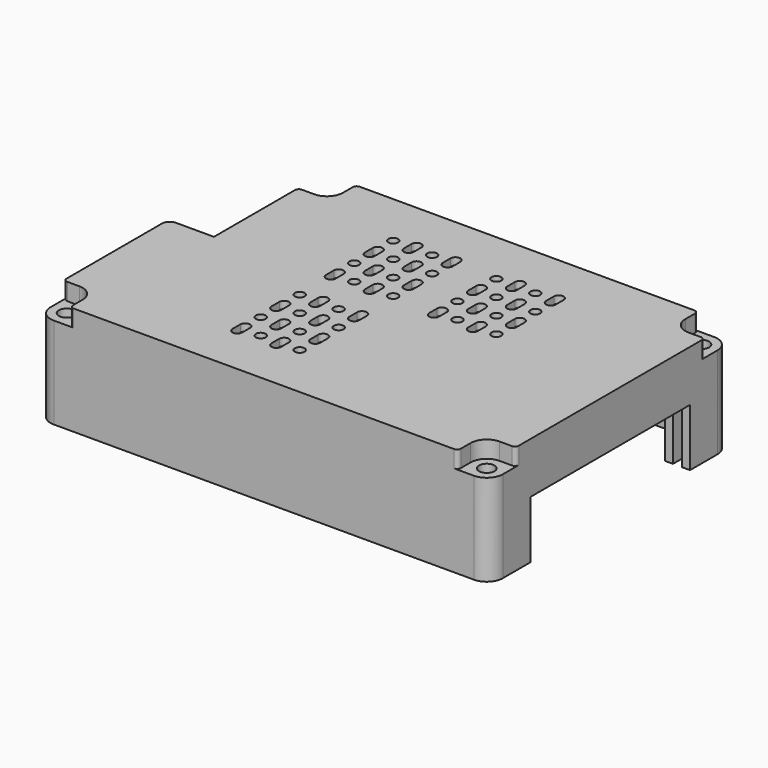
from build123d import *

# Parameters (mm, degrees)
PAD006_DEPTH    = 17.8
PAD007_DEPTH    = 3
PAD008_DEPTH    = 1.5
POCKET015_DEPTH = 17.3
POCKET016_DEPTH = 0.65
POCKET017_DEPTH = 2
SKETCH017_W     = 1.9
SKETCH017_H     = 46.1
POCKET018_DEPTH = 14.35
SKETCH018_W     = 6.1
SKETCH018_H     = 41.02
POCKET019_DEPTH = 11.81
SKETCH019_R     = 1.6
POCKET020_DEPTH = 22.301
POCKET021_DEPTH = 3.5
PAD009_DEPTH    = 9
FILLET003_R     = 3.3
FILLET004_R     = 1.6
FILLET005_R     = 6
FILLET006_R     = 0.8
FILLET007_R     = 0.761905
SKETCH032_R     = 1
POCKET025_DEPTH = 22.301


with BuildPart() as part:
    # Sketch011 → Pad006 (new body)
    with BuildSketch(Plane.XY):
        Polygon((13.3, 49.3), (13.3, 77.5), (96.8, 77.5), (96.8, 15.8), (3.9, 15.8), (3.9, 49.3), align=None)
        with BuildLine():
            Line((16.6, 17.4), (90.2, 17.4))
            Line((90.2, 17.4), (90.2, 19.1))
            ThreePointArc((91.7, 21.865863), (90.599138, 20.673213), (90.2, 19.1))
            Line((91.7, 71.434137), (91.7, 21.865863))
            ThreePointArc((90.2, 74.2), (90.599138, 72.626787), (91.7, 71.434137))
            Line((90.2, 74.2), (90.2, 75.9))
            Line((90.2, 75.9), (19.9, 75.9))
            Line((19.9, 75.9), (19.9, 74.2))
            ThreePointArc((16.6, 70.9), (18.933452, 71.866548), (19.9, 74.2))
            Line((14.9, 70.9), (16.6, 70.9))
            Line((14.9, 70.9), (14.9, 64.2))
            Line((14.9, 64.2), (16.6, 64.2))
            Line((16.6, 64.2), (16.6, 17.4))
        make_face(mode=Mode.SUBTRACT)
    extrude(amount=PAD006_DEPTH)

    # Sketch024 (on Face21 of Pad006) → Pad007 (join)
    with BuildSketch(Plane.XY.offset(17.8)):
        Polygon((3.9, 49.3), (3.9, 15.8), (96.8, 15.8), (96.8, 77.5), (13.3, 77.5), (13.3, 49.3), align=None)
        with BuildLine():
            Line((21.5, 75.9), (88.6, 75.9))
            Line((88.6, 75.9), (88.6, 74.2))
            ThreePointArc((88.6, 74.2), (89.448457, 71.444097), (91.7, 69.642588))
            Line((91.7, 69.642588), (91.7, 23.657412))
            ThreePointArc((91.7, 23.657412), (89.448457, 21.855903), (88.6, 19.1))
            Line((88.6, 17.4), (88.6, 19.1))
            Line((88.6, 17.4), (16.6, 17.4))
            Line((16.6, 17.4), (16.6, 69.3))
            ThreePointArc((16.6, 69.3), (20.064823, 70.735177), (21.5, 74.2))
            Line((21.5, 75.9), (21.5, 74.2))
        make_face(mode=Mode.SUBTRACT)
    extrude(amount=PAD007_DEPTH)

    # Sketch012 (on Face15 of Pad007) → Pad008 (join)
    with BuildSketch(Plane.XY.offset(20.8)):
        Polygon((13.3, 77.5), (13.3, 49.3), (3.9, 49.3), (3.9, 15.8), (96.8, 15.8), (96.8, 77.5), align=None)
    extrude(amount=PAD008_DEPTH)

    # Sketch013 (on Face3 of Pad008) → Pocket015 (cut)
    with BuildSketch(Plane(origin=(0, 0, 0), x_dir=(1, 0, 0), z_dir=(0, 0, -1))):
        Polygon((1.5, -22.9), (4.7, -22.9), (4.7, -22.4), (15, -22.4), (15, -22.9), (18.2, -22.9), (18.2, -47.2), (15, -47.2), (15, -47.7), (4.7, -47.7), (4.7, -47.2), (1.5, -47.2), align=None)
    extrude(amount=-POCKET015_DEPTH, mode=Mode.SUBTRACT)

    # Sketch015 (on Face10 of Pocket015) → Pocket016 (cut)
    with BuildSketch(Plane(origin=(0, 0, 17.3), x_dir=(1, 0, 0), z_dir=(0, 0, -1))):
        Polygon((4.7, -22.4), (4.7, -47.7), (15, -47.7), (15, -47.2), (17.4, -47.2), (17.4, -22.9), (15, -22.9), (15, -22.4), align=None)
    extrude(amount=-POCKET016_DEPTH, mode=Mode.SUBTRACT)

    # Sketch016 (on Face25 of Pocket016) → Pocket017 (cut)
    with BuildSketch(Plane(origin=(0, 0, 17.95), x_dir=(1, 0, 0), z_dir=(0, 0, -1))):
        Polygon((4.7, -47.7), (15, -47.7), (15, -47.2), (17.4, -47.2), (17.4, -35.05), (4.7, -35.05), align=None)
    extrude(amount=-POCKET017_DEPTH, mode=Mode.SUBTRACT)

    # Sketch017 (on Face8 of Pocket017) → Pocket018 (cut)
    with BuildSketch(Plane(origin=(0, 0, 0), x_dir=(1, 0, 0), z_dir=(0, 0, -1))):
        with Locations((94.25, -46.65)):
            Rectangle(SKETCH017_W, SKETCH017_H)
    extrude(amount=-POCKET018_DEPTH, mode=Mode.SUBTRACT)

    # Sketch018 (on Face8 of Pocket018) → Pocket019 (cut)
    with BuildSketch(Plane(origin=(0, 0, 0), x_dir=(1, 0, 0), z_dir=(0, 0, -1))):
        with Locations((94.25, -46.65)):
            Rectangle(SKETCH018_W, SKETCH018_H)
    extrude(amount=-POCKET019_DEPTH, mode=Mode.SUBTRACT)

    # Sketch019 (on Face9 of Pocket019) → Pocket020 (cut, through all)
    with BuildSketch(Plane(origin=(0, 0, 0), x_dir=(1, 0, 0), z_dir=(0, 0, -1))):
        with Locations((7.2, -19.1)):
            Circle(SKETCH019_R)
        with Locations((93.5, -19.1)):
            Circle(SKETCH019_R)
        with Locations((93.5, -74.2)):
            Circle(SKETCH019_R)
        with Locations((16.6, -74.2)):
            Circle(SKETCH019_R)
    extrude(amount=-POCKET020_DEPTH, mode=Mode.SUBTRACT)

    # Sketch020 (on Face1 of Pocket020) → Pocket021 (cut)
    with BuildSketch(Plane.XY.offset(22.3)):
        with BuildLine():
            ThreePointArc((16.6, 70.9), (18.933452, 71.866548), (19.9, 74.2))
            Line((19.9, 79.2), (19.9, 74.2))
            Line((11.6, 79.2), (19.9, 79.2))
            Line((11.6, 70.9), (11.6, 79.2))
            Line((16.6, 70.9), (11.6, 70.9))
        make_face()
        with BuildLine():
            ThreePointArc((90.2, 74.2), (91.166548, 71.866548), (93.5, 70.9))
            Line((98.5, 70.9), (93.5, 70.9))
            Line((98.5, 79.2), (98.5, 70.9))
            Line((90.2, 79.2), (98.5, 79.2))
            Line((90.2, 74.2), (90.2, 79.2))
        make_face()
        with BuildLine():
            ThreePointArc((93.5, 22.4), (91.166548, 21.433452), (90.2, 19.1))
            Line((90.2, 19.1), (90.2, 14.1))
            Line((90.2, 14.1), (98.5, 14.1))
            Line((98.5, 14.1), (98.5, 22.4))
            Line((93.5, 22.4), (98.5, 22.4))
        make_face()
        with BuildLine():
            ThreePointArc((10.5, 19.1), (9.533452, 21.433452), (7.2, 22.4))
            Line((7.2, 22.4), (2.2, 22.4))
            Line((2.2, 14.1), (2.2, 22.4))
            Line((10.5, 14.1), (2.2, 14.1))
            Line((10.5, 19.1), (10.5, 14.1))
        make_face()
    extrude(amount=-POCKET021_DEPTH, mode=Mode.SUBTRACT)

    # Sketch022 → Pad009 (join)
    with BuildSketch(Plane(origin=(0, 0, 21.3), x_dir=(1, 0, 0), z_dir=(0, 0, -1))):
        with BuildLine():
            ThreePointArc((75, -46.5), (70.0331, -32.388578), (58, -23.5))
            Line((58, -23.5), (58.530776, -21.990604))
            ThreePointArc((76.598697, -46.435438), (71.319782, -31.437552), (58.530776, -21.990604))
            Line((75, -46.5), (76.598697, -46.435438))
        make_face()
    extrude(amount=PAD009_DEPTH)

    # Fillet003
    fillet003_edges = [part.edges().sort_by_distance(p)[0] for p in [
        (13.3, 77.5, 9.4),
        (3.9, 15.8, 9.4),
        (96.8, 77.5, 9.4),
        (96.8, 15.8, 9.4),
    ]]
    fillet(fillet003_edges, radius=FILLET003_R)

    # Fillet004
    fillet004_edges = [part.edges().sort_by_distance(p)[0] for p in [
        (3.9, 49.3, 11.15),
    ]]
    fillet(fillet004_edges, radius=FILLET004_R)

    # Fillet005
    fillet005_edges = [part.edges().sort_by_distance(p)[0] for p in [
        (4.3, 47.2, 17.3),
        (4.3, 22.9, 17.3),
    ]]
    fillet(fillet005_edges, radius=FILLET005_R)

    # Fillet006
    fillet006_edges = [part.edges().sort_by_distance(p)[0] for p in [
        (13.3, 70.9, 20.55),
        (19.9, 77.5, 20.55),
        (3.9, 22.4, 20.55),
        (10.5, 15.8, 20.55),
        (96.8, 22.4, 20.55),
        (90.2, 15.8, 20.55),
        (96.8, 70.9, 20.55),
        (90.2, 77.5, 20.55),
    ]]
    fillet(fillet006_edges, radius=FILLET006_R)

    # Fillet007
    fillet007_edges = [part.edges().sort_by_distance(p)[0] for p in [
        (58, 23.5, 16.55),
        (58.530776, 21.990604, 16.55),
        (76.598697, 46.435438, 16.55),
        (75, 46.5, 16.55),
    ]]
    fillet(fillet007_edges, radius=FILLET007_R)

    # Sketch032 (on Face71 of Fillet007) → Pocket025 (cut, through all)
    with BuildSketch(Plane(origin=(20, 20, 22.3), x_dir=(-1, 0, 0), z_dir=(0, 0, 1))):
        with Locations((-16.6, -22.2)):
            Circle(SKETCH032_R)
        with Locations((-16.6, -12.2)):
            Circle(SKETCH032_R)
        with Locations((-20.6, -17.2)):
            Circle(SKETCH032_R)
        with Locations((-20.6, -7.2)):
            Circle(SKETCH032_R)
        with Locations((-24.6, -22.2)):
            Circle(SKETCH032_R)
        with Locations((-24.6, -12.2)):
            Circle(SKETCH032_R)
        with Locations((-28.6, -17.2)):
            Circle(SKETCH032_R)
        with Locations((-28.6, -7.2)):
            Circle(SKETCH032_R)
        with Locations((-16.6, -46.2)):
            Circle(SKETCH032_R)
        with Locations((-16.6, -36.2)):
            Circle(SKETCH032_R)
        with Locations((-20.6, -41.2)):
            Circle(SKETCH032_R)
        with Locations((-20.6, -31.2)):
            Circle(SKETCH032_R)
        with Locations((-24.6, -46.2)):
            Circle(SKETCH032_R)
        with Locations((-24.6, -36.2)):
            Circle(SKETCH032_R)
        with Locations((-28.6, -41.2)):
            Circle(SKETCH032_R)
        with Locations((-28.6, -31.2)):
            Circle(SKETCH032_R)
        with Locations((-37.8, -46.2)):
            Circle(SKETCH032_R)
        with Locations((-37.8, -36.2)):
            Circle(SKETCH032_R)
        with Locations((-41.8, -41.2)):
            Circle(SKETCH032_R)
        with Locations((-41.8, -31.2)):
            Circle(SKETCH032_R)
        with Locations((-45.8, -46.2)):
            Circle(SKETCH032_R)
        with Locations((-45.8, -36.2)):
            Circle(SKETCH032_R)
        with Locations((-49.8, -41.2)):
            Circle(SKETCH032_R)
        with Locations((-49.8, -31.2)):
            Circle(SKETCH032_R)
        with BuildLine():
            ThreePointArc((-17.6, -18.2), (-16.6, -19.2), (-15.6, -18.2))
            Line((-15.6, -16.2), (-15.6, -18.2))
            ThreePointArc((-15.6, -16.2), (-16.6, -15.2), (-17.6, -16.2))
            Line((-17.6, -18.2), (-17.6, -16.2))
        make_face()
        with BuildLine():
            ThreePointArc((-17.6, -8.2), (-16.6, -9.2), (-15.6, -8.2))
            Line((-15.6, -6.2), (-15.6, -8.2))
            ThreePointArc((-15.6, -6.2), (-16.6, -5.2), (-17.6, -6.2))
            Line((-17.6, -8.2), (-17.6, -6.2))
        make_face()
        with BuildLine():
            ThreePointArc((-21.6, -23.2), (-20.6, -24.2), (-19.6, -23.2))
            Line((-19.6, -21.2), (-19.6, -23.2))
            ThreePointArc((-19.6, -21.2), (-20.6, -20.2), (-21.6, -21.2))
            Line((-21.6, -23.2), (-21.6, -21.2))
        make_face()
        with BuildLine():
            ThreePointArc((-21.6, -13.2), (-20.6, -14.2), (-19.6, -13.2))
            Line((-19.6, -11.2), (-19.6, -13.2))
            ThreePointArc((-19.6, -11.2), (-20.6, -10.2), (-21.6, -11.2))
            Line((-21.6, -13.2), (-21.6, -11.2))
        make_face()
        with BuildLine():
            ThreePointArc((-25.6, -18.2), (-24.6, -19.2), (-23.6, -18.2))
            Line((-23.6, -16.2), (-23.6, -18.2))
            ThreePointArc((-23.6, -16.2), (-24.6, -15.2), (-25.6, -16.2))
            Line((-25.6, -18.2), (-25.6, -16.2))
        make_face()
        with BuildLine():
            ThreePointArc((-25.6, -8.2), (-24.6, -9.2), (-23.6, -8.2))
            Line((-23.6, -6.2), (-23.6, -8.2))
            ThreePointArc((-23.6, -6.2), (-24.6, -5.2), (-25.6, -6.2))
            Line((-25.6, -8.2), (-25.6, -6.2))
        make_face()
        with BuildLine():
            ThreePointArc((-29.6, -23.2), (-28.6, -24.2), (-27.6, -23.2))
            Line((-27.6, -21.2), (-27.6, -23.2))
            ThreePointArc((-27.6, -21.2), (-28.6, -20.2), (-29.6, -21.2))
            Line((-29.6, -23.2), (-29.6, -21.2))
        make_face()
        with BuildLine():
            ThreePointArc((-29.6, -13.2), (-28.6, -14.2), (-27.6, -13.2))
            Line((-27.6, -11.2), (-27.6, -13.2))
            ThreePointArc((-27.6, -11.2), (-28.6, -10.2), (-29.6, -11.2))
            Line((-29.6, -13.2), (-29.6, -11.2))
        make_face()
        with BuildLine():
            ThreePointArc((-17.6, -42.2), (-16.6, -43.2), (-15.6, -42.2))
            Line((-15.6, -40.2), (-15.6, -42.2))
            ThreePointArc((-15.6, -40.2), (-16.6, -39.2), (-17.6, -40.2))
            Line((-17.6, -42.2), (-17.6, -40.2))
        make_face()
        with BuildLine():
            ThreePointArc((-17.6, -32.2), (-16.6, -33.2), (-15.6, -32.2))
            Line((-15.6, -30.2), (-15.6, -32.2))
            ThreePointArc((-15.6, -30.2), (-16.6, -29.2), (-17.6, -30.2))
            Line((-17.6, -32.2), (-17.6, -30.2))
        make_face()
        with BuildLine():
            ThreePointArc((-21.6, -47.2), (-20.6, -48.2), (-19.6, -47.2))
            Line((-19.6, -45.2), (-19.6, -47.2))
            ThreePointArc((-19.6, -45.2), (-20.6, -44.2), (-21.6, -45.2))
            Line((-21.6, -47.2), (-21.6, -45.2))
        make_face()
        with BuildLine():
            ThreePointArc((-21.6, -37.2), (-20.6, -38.2), (-19.6, -37.2))
            Line((-19.6, -35.2), (-19.6, -37.2))
            ThreePointArc((-19.6, -35.2), (-20.6, -34.2), (-21.6, -35.2))
            Line((-21.6, -37.2), (-21.6, -35.2))
        make_face()
        with BuildLine():
            ThreePointArc((-25.6, -42.2), (-24.6, -43.2), (-23.6, -42.2))
            Line((-23.6, -40.2), (-23.6, -42.2))
            ThreePointArc((-23.6, -40.2), (-24.6, -39.2), (-25.6, -40.2))
            Line((-25.6, -42.2), (-25.6, -40.2))
        make_face()
        with BuildLine():
            ThreePointArc((-25.6, -32.2), (-24.6, -33.2), (-23.6, -32.2))
            Line((-23.6, -30.2), (-23.6, -32.2))
            ThreePointArc((-23.6, -30.2), (-24.6, -29.2), (-25.6, -30.2))
            Line((-25.6, -32.2), (-25.6, -30.2))
        make_face()
        with BuildLine():
            ThreePointArc((-29.6, -47.2), (-28.6, -48.2), (-27.6, -47.2))
            Line((-27.6, -45.2), (-27.6, -47.2))
            ThreePointArc((-27.6, -45.2), (-28.6, -44.2), (-29.6, -45.2))
            Line((-29.6, -47.2), (-29.6, -45.2))
        make_face()
        with BuildLine():
            ThreePointArc((-29.6, -37.2), (-28.6, -38.2), (-27.6, -37.2))
            Line((-27.6, -35.2), (-27.6, -37.2))
            ThreePointArc((-27.6, -35.2), (-28.6, -34.2), (-29.6, -35.2))
            Line((-29.6, -37.2), (-29.6, -35.2))
        make_face()
        with BuildLine():
            ThreePointArc((-38.8, -42.2), (-37.8, -43.2), (-36.8, -42.2))
            Line((-36.8, -40.2), (-36.8, -42.2))
            ThreePointArc((-36.8, -40.2), (-37.8, -39.2), (-38.8, -40.2))
            Line((-38.8, -42.2), (-38.8, -40.2))
        make_face()
        with BuildLine():
            ThreePointArc((-38.8, -32.2), (-37.8, -33.2), (-36.8, -32.2))
            Line((-36.8, -30.2), (-36.8, -32.2))
            ThreePointArc((-36.8, -30.2), (-37.8, -29.2), (-38.8, -30.2))
            Line((-38.8, -32.2), (-38.8, -30.2))
        make_face()
        with BuildLine():
            ThreePointArc((-42.8, -47.2), (-41.8, -48.2), (-40.8, -47.2))
            Line((-40.8, -45.2), (-40.8, -47.2))
            ThreePointArc((-40.8, -45.2), (-41.8, -44.2), (-42.8, -45.2))
            Line((-42.8, -47.2), (-42.8, -45.2))
        make_face()
        with BuildLine():
            ThreePointArc((-42.8, -37.2), (-41.8, -38.2), (-40.8, -37.2))
            Line((-40.8, -35.2), (-40.8, -37.2))
            ThreePointArc((-40.8, -35.2), (-41.8, -34.2), (-42.8, -35.2))
            Line((-42.8, -37.2), (-42.8, -35.2))
        make_face()
        with BuildLine():
            ThreePointArc((-46.8, -42.2), (-45.8, -43.2), (-44.8, -42.2))
            Line((-44.8, -40.2), (-44.8, -42.2))
            ThreePointArc((-44.8, -40.2), (-45.8, -39.2), (-46.8, -40.2))
            Line((-46.8, -42.2), (-46.8, -40.2))
        make_face()
        with BuildLine():
            ThreePointArc((-46.8, -32.2), (-45.8, -33.2), (-44.8, -32.2))
            Line((-44.8, -30.2), (-44.8, -32.2))
            ThreePointArc((-44.8, -30.2), (-45.8, -29.2), (-46.8, -30.2))
            Line((-46.8, -32.2), (-46.8, -30.2))
        make_face()
        with BuildLine():
            ThreePointArc((-50.8, -47.2), (-49.8, -48.2), (-48.8, -47.2))
            Line((-48.8, -45.2), (-48.8, -47.2))
            ThreePointArc((-48.8, -45.2), (-49.8, -44.2), (-50.8, -45.2))
            Line((-50.8, -47.2), (-50.8, -45.2))
        make_face()
        with BuildLine():
            ThreePointArc((-50.8, -37.2), (-49.8, -38.2), (-48.8, -37.2))
            Line((-48.8, -35.2), (-48.8, -37.2))
            ThreePointArc((-48.8, -35.2), (-49.8, -34.2), (-50.8, -35.2))
            Line((-50.8, -37.2), (-50.8, -35.2))
        make_face()
    extrude(amount=-POCKET025_DEPTH, mode=Mode.SUBTRACT)


solid = part.part
